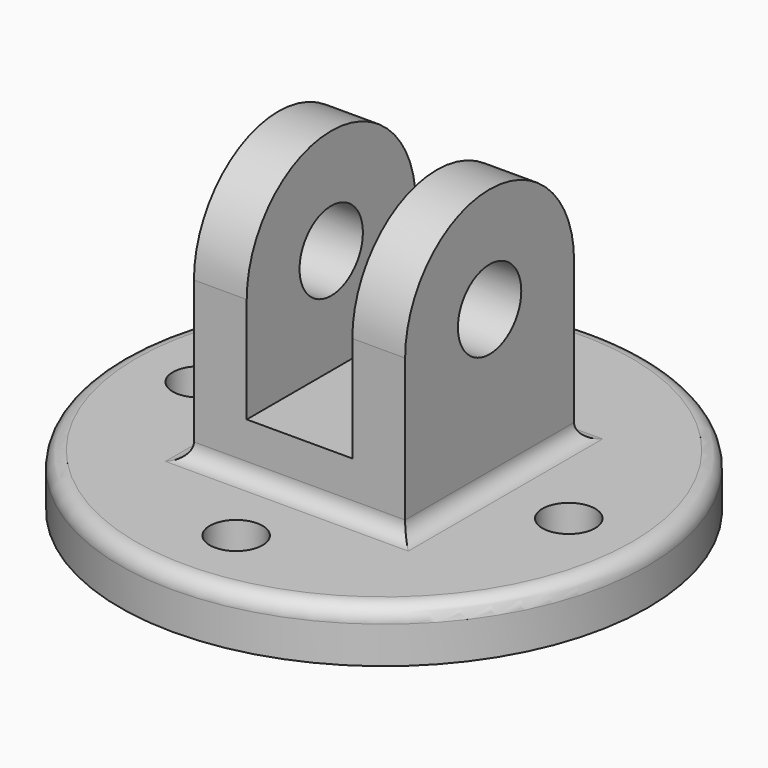
from build123d import *

# Parameters (mm, degrees)
F0_R     = 63.5
F0_R_2   = 6.35
F1_DEPTH = 12.7
F2_R     = 9.525
F3_DEPTH = 25.4
F4_W     = 25.4
F4_H     = 50.8
F5_DEPTH = 88.901
F6_R     = 3.81


with BuildPart() as f1:
    # F0 (on Top) → F1 (new body)
    with BuildSketch(Plane.XY):
        Circle(F0_R)
        with Locations((0, -44.45)):
            Circle(F0_R_2, mode=Mode.SUBTRACT)
        with Locations((-44.45, 0)):
            Circle(F0_R_2, mode=Mode.SUBTRACT)
        with Locations((44.45, 0)):
            Circle(F0_R_2, mode=Mode.SUBTRACT)
        with Locations((0, 44.45)):
            Circle(F0_R_2, mode=Mode.SUBTRACT)
    extrude(amount=F1_DEPTH)

    # F2 (on Right) → F3 (join, symmetric)
    with BuildSketch(Plane.YZ):
        with BuildLine():
            Line((-25.4, 50.8), (-25.4, 12.7))
            Line((-25.4, 12.7), (25.4, 12.7))
            Line((25.4, 12.7), (25.4, 50.8))
            ThreePointArc((25.4, 50.8), (0, 76.2), (-25.4, 50.8))
        make_face()
        with Locations((0, 50.8)):
            Circle(F2_R, mode=Mode.SUBTRACT)
    extrude(amount=F3_DEPTH, both=True)

    # F4 (on face) → F5 (cut, through all)
    with BuildSketch(Plane.XZ.offset(25.4)):
        with Locations((0, 50.8)):
            Rectangle(F4_W, F4_H)
    extrude(amount=-F5_DEPTH, mode=Mode.SUBTRACT)

    # F6
    f6_edges = [f1.edges().sort_by_distance(p)[0] for p in [
        (0, -25.4, 12.7),
        (-25.4, 0, 12.7),
        (0, 25.4, 12.7),
        (25.4, 0, 12.7),
        (-63.5, 0, 12.7),
    ]]
    fillet(f6_edges, radius=F6_R)


solid = f1.part
